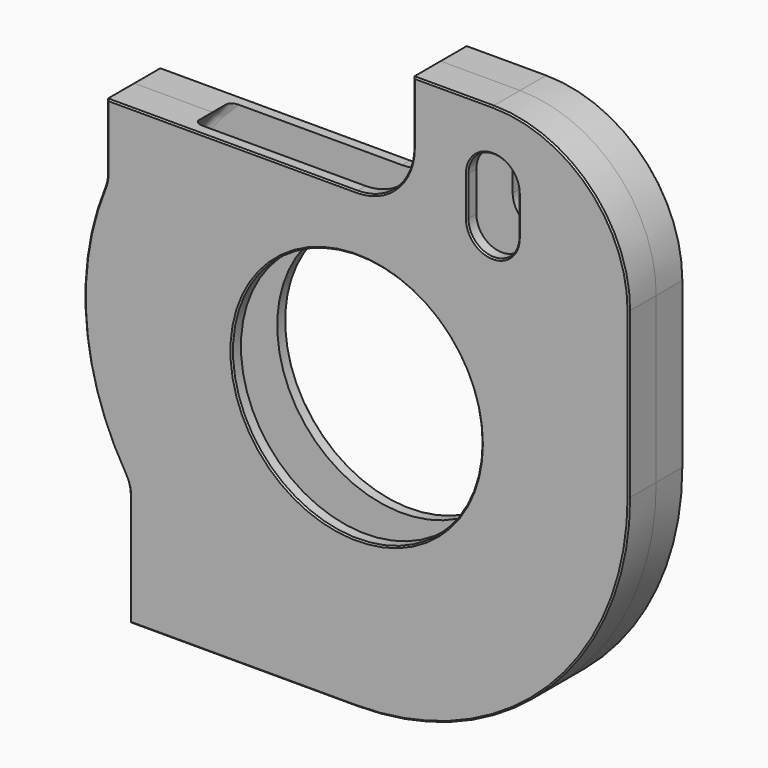
from build123d import *

# Parameters (mm, degrees)
F2_DEPTH = 6.35
F3_R     = 1.5875
F0_R     = 34.925
F4_DEPTH = 9.525
F7_SIZE  = 0.396875


with BuildPart() as f2:
    # F1 (on Front) → F2 (new body)
    with BuildSketch(Plane.XZ):
        with BuildLine():
            Line((0, 77.7875), (0, 69.85))
            ThreePointArc((0, 69.85), (-49.391409, -49.391409), (69.85, 0))
            Line((69.85, 0), (69.85, 46.0375))
            ThreePointArc((69.85, 46.0375), (60.55064, 68.48814), (38.1, 77.7875))
            Line((38.1, 77.7875), (0, 77.7875))
        make_face()
    extrude(amount=F2_DEPTH)

    # F3
    f3_edges = [f2.edges().sort_by_distance(p)[0] for p in [
        (60.55064, -6.35, 68.48814),
    ]]
    fillet(f3_edges, radius=F3_R)


with BuildPart() as f4:
    # F0 (on Front) → F4 (new body)
    with BuildSketch(Plane.XZ):
        with BuildLine():
            Line((-63.5, -76.2), (0, -76.2))
            ThreePointArc((0, -76.2), (53.881537, -53.881537), (76.2, 0))
            Line((76.2, 0), (76.2, 46.0375))
            ThreePointArc((76.2, 46.0375), (65.040768, 72.978268), (38.1, 84.1375))
            Line((38.1, 84.1375), (15.875, 84.1375))
            Line((15.875, 84.1375), (15.875, 66.675))
            ThreePointArc((15.875, 66.675), (11.22532, 55.44968), (0, 50.8))
            Line((0, 50.8), (-69.85, 50.8))
            Line((-69.85, 50.8), (-69.85, 32.378774))
            ThreePointArc((-69.85, 32.378774), (-70.028053, 30.545687), (-70.555556, 28.781132))
            ThreePointArc((-70.555556, 28.781132), (-75.944056, -6.240223), (-64.911111, -39.912249))
            ThreePointArc((-64.911111, -39.912249), (-63.859564, -42.308904), (-63.5, -44.901281))
            Line((-63.5, -44.901281), (-63.5, -76.2))
        make_face()
        Circle(F0_R, mode=Mode.SUBTRACT)
        with BuildLine():
            ThreePointArc((45.24375, 53.975), (38.1, 46.83125), (30.95625, 53.975))
            Line((30.95625, 53.975), (30.95625, 65.0875))
            ThreePointArc((30.95625, 65.0875), (38.1, 72.23125), (45.24375, 65.0875))
            Line((45.24375, 65.0875), (45.24375, 53.975))
        make_face(mode=Mode.SUBTRACT)
    extrude(amount=F4_DEPTH)

    # F5: cut F2
    add(f2.part, mode=Mode.SUBTRACT)

    # F7
    f7_edges = [f4.edges().sort_by_distance(p)[0] for p in [
        (-63.859564, -9.525, -42.308904),
        (-63.5, -9.525, -60.55064),
        (-31.75, -9.525, -76.2),
        (53.881537, -9.525, -53.881537),
        (76.2, -9.525, 23.01875),
        (65.040768, -9.525, 72.978268),
        (26.9875, -9.525, 84.1375),
        (15.875, -9.525, 75.40625),
        (11.22532, -9.525, 55.44968),
        (-34.925, -9.525, 50.8),
        (-69.85, -9.525, 41.589387),
        (-70.028053, -9.525, 30.545687),
        (-75.944056, -9.525, -6.240223),
        (-34.925, -9.525, 0),
        (38.1, -9.525, 72.23125),
        (45.24375, -9.525, 59.53125),
        (38.1, -9.525, 46.83125),
        (30.95625, -9.525, 59.53125),
    ]]
    chamfer(f7_edges, length=F7_SIZE)


with BuildPart() as f6_1:
    # F6: instance of F4
    add(f4.part.mirror(Plane(origin=(-4.823836, 0, -16.021516), x_dir=(1, 0, 0), z_dir=(0, 1, 0))))


with BuildPart() as f9_tool:
    # F8 (on Front) → F9 (revolve)
    with BuildSketch(Plane.XZ):
        Polygon((-63.5, -63.5), (0, -63.5), (0, -57.15), (-57.15, -57.15), (-57.15, -56.5), (-62.5, -56.5), (-62.5, -55.5), (-63.5, -55.5), align=None)
    revolve(axis=Axis((-38.34922, 0, -63.5), (-1, 0, 0)))


with BuildPart() as f4_1:
    add(f4.part)

    # F9: cut by f9_tool
    add(f9_tool.part, mode=Mode.SUBTRACT)


with BuildPart() as f6_1_1:
    add(f6_1.part)

    # F9: cut by f9_tool
    add(f9_tool.part, mode=Mode.SUBTRACT)


solid = Compound([f4_1.part, f6_1_1.part])
